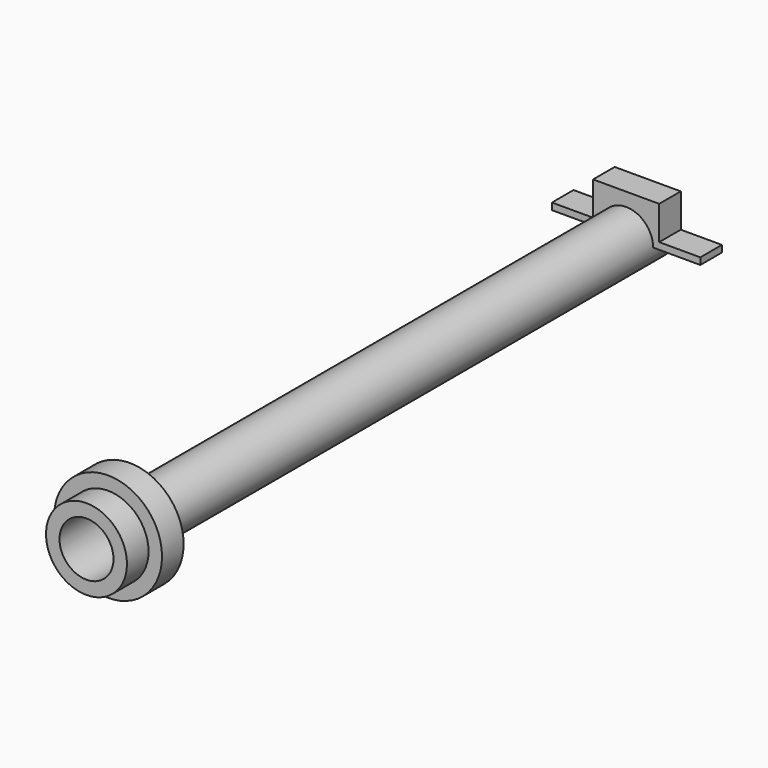
from build123d import *

# Parameters (mm, degrees)
F0_R     = 25.4
F0_R_2   = 19.05
F1_DEPTH = 609.6
F3_DEPTH = 25.4
F5_DEPTH = 25.4
F6_R     = 50.8
F6_R_2   = 38.1
F7_DEPTH = 25.4
F6_R_3   = 25.4
F8_DEPTH = 50.8


with BuildPart() as f1:
    # F0 (on Front) → F1 (new body)
    with BuildSketch(Plane.XZ):
        Circle(F0_R)
        Circle(F0_R_2, mode=Mode.SUBTRACT)
    extrude(amount=F1_DEPTH)



with BuildPart() as f3:
    # F2 (on Front) → F3 (new body)
    with BuildSketch(Plane.XZ):
        with BuildLine():
            ThreePointArc((-24.5934442484, 6.35), (0, 25.4), (24.5934442484, 6.35))
            Line((24.5934442484, 6.35), (31.1085197333, 6.35))
            ThreePointArc((31.1085197333, 6.35), (0, 31.75), (-31.1085197333, 6.35))
            Line((-31.1085197333, 6.35), (-24.5934442484, 6.35))
        make_face()
        with BuildLine():
            ThreePointArc((31.1085197333, 6.35), (31.5892228579, 3.1911595437), (31.75, 0))
            Line((31.75, 0), (69.85, 0))
            Line((69.85, 0), (69.85, 6.35))
            Line((69.85, 6.35), (31.1085197333, 6.35))
        make_face()
        with BuildLine():
            ThreePointArc((24.5934442484, 6.35), (25.1975542852, 3.2005090291), (25.4, 0))
            Line((25.4, 0), (31.75, 0))
            ThreePointArc((31.75, 0), (31.5892228579, 3.1911595437), (31.1085197333, 6.35))
            Line((31.1085197333, 6.35), (24.5934442484, 6.35))
        make_face()
        with BuildLine():
            Line((-31.75, 0), (-25.4, 0))
            ThreePointArc((-25.4, 0), (-25.1975542852, 3.2005090291), (-24.5934442484, 6.35))
            Line((-24.5934442484, 6.35), (-31.1085197333, 6.35))
            ThreePointArc((-31.1085197333, 6.35), (-31.5892228579, 3.1911595437), (-31.75, 0))
        make_face()
        with BuildLine():
            Line((-69.85, 0), (-31.75, 0))
            ThreePointArc((-31.75, 0), (-31.5892228579, 3.1911595437), (-31.1085197333, 6.35))
            Line((-31.1085197333, 6.35), (-69.85, 6.35))
            Line((-69.85, 6.35), (-69.85, 0))
        make_face()
    extrude(amount=F3_DEPTH)

    # F4 (on Front) → F5 (join)
    with BuildSketch(Plane.XZ):
        Polygon((-31.1085197333, 31.75), (-2.84e-08, 31.75), (31.1085197333, 31.75), (31.1085197333, 38.1), (-31.1085197333, 38.1), align=None)
        with BuildLine():
            ThreePointArc((-2.84e-08, 31.75), (20.0804631311, 24.5934442574), (31.1085197333, 6.35))
            Line((31.1085197333, 6.35), (31.1085197333, 31.75))
            Line((31.1085197333, 31.75), (-2.84e-08, 31.75))
        make_face()
        with BuildLine():
            ThreePointArc((-31.1085197333, 6.35), (-20.0804631531, 24.5934442394), (-2.84e-08, 31.75))
            Line((-2.84e-08, 31.75), (-31.1085197333, 31.75))
            Line((-31.1085197333, 31.75), (-31.1085197333, 6.35))
        make_face()
    extrude(amount=F5_DEPTH)


with BuildPart() as f7:
    # F6 (on face) → F7 (new body)
    with BuildSketch(Plane.XZ.offset(609.6)):
        Circle(F6_R)
        Circle(F6_R_2, mode=Mode.SUBTRACT)
    extrude(amount=F7_DEPTH)


with BuildPart() as f1_1:
    add(f1.part)

    add(f7.part)  # F8 merges F7
    # F6 (on face) → F8 (join)
    with BuildSketch(Plane.XZ.offset(609.6)):
        Circle(F6_R_2)
        Circle(F6_R_3, mode=Mode.SUBTRACT)
    extrude(amount=F8_DEPTH)


solid = Compound([f3.part, f1_1.part])
